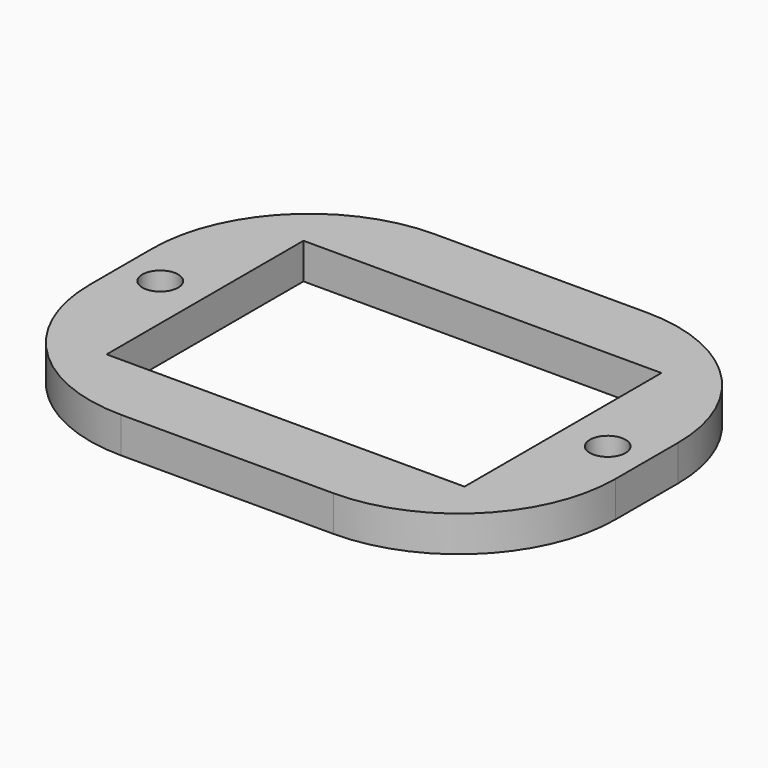
from build123d import *

# Parameters (mm, degrees)
SKETCH_R  = 1.6
SKETCH_W  = 32
SKETCH_H  = 22
PAD_DEPTH = 3.2


with BuildPart() as part:
    # Sketch → Pad (new body)
    with BuildSketch(Plane.XY):
        with BuildLine():
            Line((-9.5, 17.5), (9.5, 17.5))
            ThreePointArc((23.5, 3.5), (19.399495, 13.399495), (9.5, 17.5))
            Line((23.5, 3.5), (23.5, -3.5))
            ThreePointArc((9.5, -17.5), (19.399495, -13.399495), (23.5, -3.5))
            Line((9.5, -17.5), (-9.5, -17.5))
            ThreePointArc((-23.5, -3.5), (-19.399495, -13.399495), (-9.5, -17.5))
            Line((-23.5, -3.5), (-23.5, 3.5))
            ThreePointArc((-9.5, 17.5), (-19.399495, 13.399495), (-23.5, 3.5))
        make_face()
        with Locations((-20, 0)):
            Circle(SKETCH_R, mode=Mode.SUBTRACT)
        with Locations((20, 0)):
            Circle(SKETCH_R, mode=Mode.SUBTRACT)
        Rectangle(SKETCH_W, SKETCH_H, mode=Mode.SUBTRACT)
    extrude(amount=PAD_DEPTH)


solid = part.part
